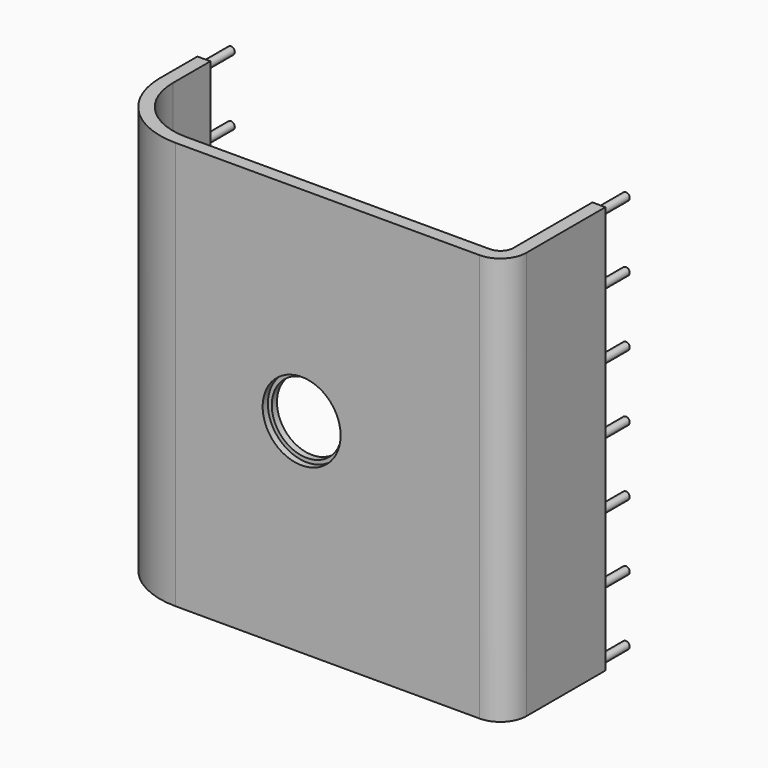
from build123d import *

# Parameters (mm, degrees)
F1_DEPTH = 157
F2_R     = 13.5
F3_DEPTH = 25
F4_R     = 15
F5_DEPTH = 2.5
F6_R     = 1.475
F7_DEPTH = 13
F8_R     = 1.475
F9_DEPTH = 13


with BuildPart() as f1:
    # F0 (on Top) → F1 (new body)
    with BuildSketch(Plane.XY):
        with BuildLine():
            Line((-48.5, -24), (68.5, -24))
            ThreePointArc((68.5, -24), (75.571068, -21.071068), (78.5, -14))
            Line((78.5, -14), (78.5, 24))
            Line((78.5, 24), (73.5, 24))
            Line((73.5, 24), (73.5, -14))
            ThreePointArc((73.5, -14), (72.035534, -17.535534), (68.5, -19))
            Line((68.5, -19), (-48.499, -19))
            ThreePointArc((-48.499, -19), (-66.177377, -11.677377), (-73.5, 6.001))
            Line((-73.5, 6.001), (-73.5, 24))
            Line((-73.5, 24), (-78.5, 24))
            Line((-78.5, 24), (-78.5, 6))
            ThreePointArc((-78.5, 6), (-69.713203, -15.213203), (-48.5, -24))
        make_face()
    extrude(amount=F1_DEPTH)

    # F2 (on face) → F3 (cut)
    with BuildSketch(Plane.XZ.offset(24)):
        with Locations((0, 78.5)):
            Circle(F2_R)
    extrude(amount=-F3_DEPTH, mode=Mode.SUBTRACT)

    # F4 (on face) → F5 (cut)
    with BuildSketch(Plane.XZ.offset(24)):
        with Locations((0, 78.5)):
            Circle(F4_R)
    extrude(amount=-F5_DEPTH, mode=Mode.SUBTRACT)

    # F6 (on face) → F7 (join)
    with BuildSketch(Plane(origin=(0, 24, 0), x_dir=(-1, 0, 0), z_dir=(0, 1, 0))):
        with Locations((-76, 154.5)):
            Circle(F6_R)
        with Locations((-76, 129.1667)):
            Circle(F6_R)
        with Locations((-76, 103.8334)):
            Circle(F6_R)
        with Locations((-76, 78.5001)):
            Circle(F6_R)
        with Locations((-76, 53.1668)):
            Circle(F6_R)
        with Locations((-76, 27.8335)):
            Circle(F6_R)
        with Locations((-76, 2.5002)):
            Circle(F6_R)
    extrude(amount=F7_DEPTH)

    # F8 (on face) → F9 (join)
    with BuildSketch(Plane(origin=(0, 24, 0), x_dir=(-1, 0, 0), z_dir=(0, 1, 0))):
        with Locations((76, 103.8334)):
            Circle(F8_R)
        with Locations((76, 129.1667)):
            Circle(F8_R)
        with Locations((76, 154.5)):
            Circle(F8_R)
        with Locations((76, 78.5001)):
            Circle(F8_R)
        with Locations((76, 53.1668)):
            Circle(F8_R)
        with Locations((76, 2.5002)):
            Circle(F8_R)
        with Locations((76, 27.8335)):
            Circle(F8_R)
    extrude(amount=F9_DEPTH)


solid = f1.part
